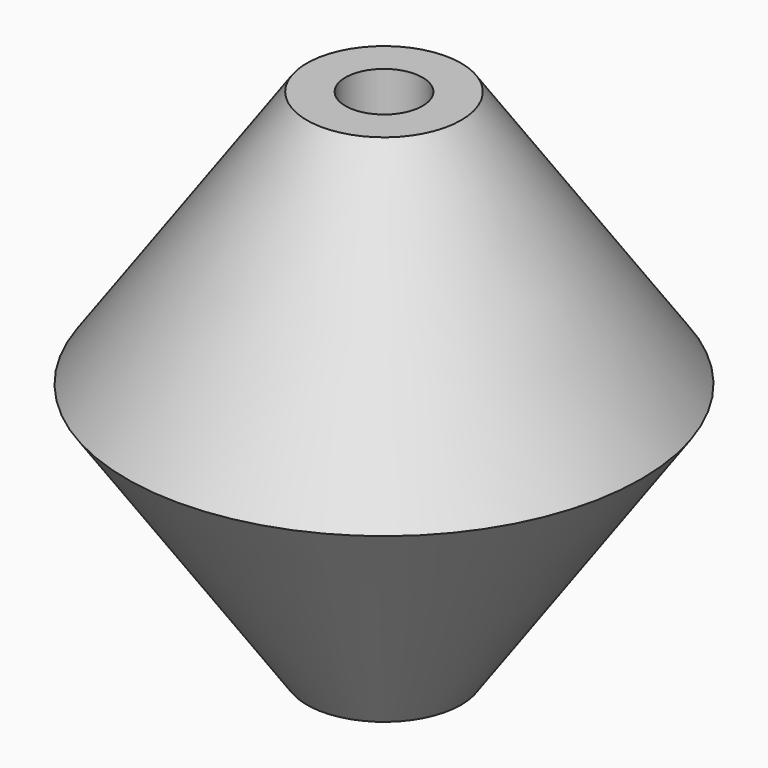
from build123d import *

# Parameters (mm, degrees)
F0_W = 0.3
F0_H = 2


with BuildPart() as f1:
    # F0 (on Front) → F1 (revolve)
    with BuildSketch(Plane.XZ):
        Polygon((0.6, 0), (0.3, 0), (0.3, -2), (0.6, -2), (2, 0), align=None)
        Polygon((0.6, 2), (0.6, 0), (2, 0), align=None)
        with Locations((0.45, 1)):
            Rectangle(F0_W, F0_H)
    revolve(axis=Axis((0, 0, 1), (0, 0, 1)))


solid = f1.part
